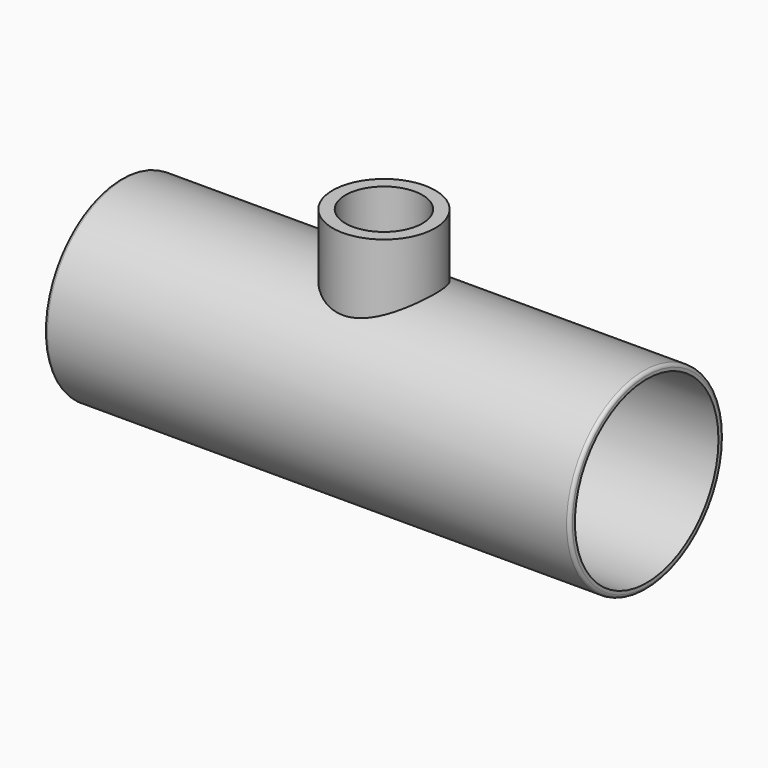
from build123d import *

# Parameters (mm, degrees)
F0_R     = 19.05
F0_R_2   = 17.78
F1_DEPTH = 52.07
F2_R     = 0.635
F3_R     = 10.16
F3_R_2   = 7.62
F4_DEPTH = 30.48
F5_R     = 7.62
F6_DEPTH = 30.481
F8_DEPTH = 25.4


with BuildPart() as f1:
    # F0 (on Right) → F1 (new body, symmetric)
    with BuildSketch(Plane.YZ):
        Circle(F0_R)
        Circle(F0_R_2, mode=Mode.SUBTRACT)
    extrude(amount=F1_DEPTH, both=True)

    # F2
    f2_edges = [f1.edges().sort_by_distance(p)[0] for p in [
        (52.07, -19.05, 0),
        (-52.07, -19.05, 0),
    ]]
    fillet(f2_edges, radius=F2_R)

    # F3 (on Top) → F4 (join)
    with BuildSketch(Plane.XY):
        Circle(F3_R)
        Circle(F3_R_2, mode=Mode.SUBTRACT)
    extrude(amount=F4_DEPTH)

    # F5 (on Top) → F6 (cut, through all)
    with BuildSketch(Plane.XY):
        Circle(F5_R)
    extrude(amount=F6_DEPTH, mode=Mode.SUBTRACT)

    # F7 (on Right) → F8 (cut, symmetric)
    with BuildSketch(Plane.YZ):
        with BuildLine():
            Line((-10.16, 12.7), (-10.16, 14.591189))
            ThreePointArc((-10.16, 14.591189), (0, -17.78), (10.16, 14.591189))
            Line((10.16, 14.591189), (10.16, 12.7))
            Line((10.16, 12.7), (-10.16, 12.7))
        make_face()
    extrude(amount=F8_DEPTH, both=True, mode=Mode.SUBTRACT)


solid = f1.part
